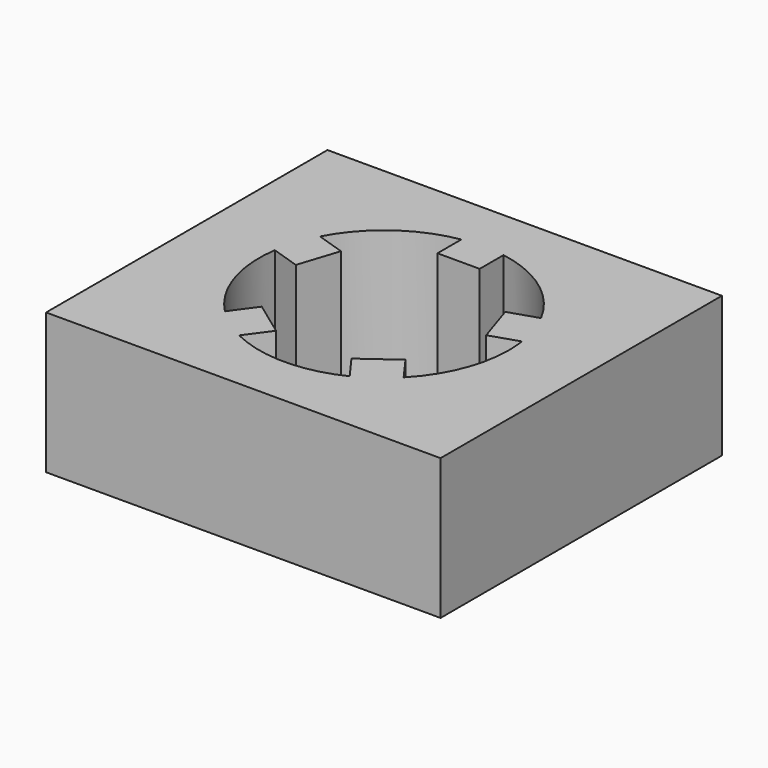
from build123d import *

# Parameters (mm, degrees)
F1_W     = 11.2149509114
F1_H     = 10
F2_DEPTH = 4
F4_DEPTH = 4


with BuildPart() as f2:
    # F1 (on Top) → F2 (new body)
    with BuildSketch(Plane.XY):
        Rectangle(F1_W, F1_H)
    extrude(amount=-F2_DEPTH)

    # F3 (on Top) → F4 (cut)
    with BuildSketch(Plane.XY):
        with BuildLine():
            ThreePointArc((2.5420287133, -2.4780213923), (3.2883660025, -1.3375907572), (3.55, 0))
            ThreePointArc((3.55, 0), (3.5407601901, 0.2559634273), (3.5130888585, 0.5105944302))
            Line((3.5130888585, 0.5105944302), (2.7057099648, 0.2482611253))
            Line((2.7057099648, 0.2482611253), (2.3348895716, 1.3895289449))
            Line((2.3348895716, 1.3895289449), (3.1422684653, 1.6518622498))
            ThreePointArc((3.1422684653, 1.6518622498), (2.0866376456, 2.87201033), (0.6, 3.4989284074))
            Line((0.6, 3.4989284074), (0.6, 2.65))
            Line((0.6, 2.65), (-0.6, 2.65))
            Line((-0.6, 2.65), (-0.6, 3.4989284074))
            ThreePointArc((-0.6, 3.4989284074), (-2.0866376456, 2.87201033), (-3.1422684653, 1.6518622498))
            Line((-3.1422684653, 1.6518622498), (-2.3348895716, 1.3895289449))
            Line((-2.3348895716, 1.3895289449), (-2.7057099648, 0.2482611253))
            Line((-2.7057099648, 0.2482611253), (-3.5130888585, 0.5105944302))
            ThreePointArc((-3.5130888585, 0.5105944302), (-3.3762506328, -1.09701033), (-2.5420287133, -2.4780213923))
            Line((-2.5420287133, -2.4780213923), (-2.0430411152, -1.7912238837))
            Line((-2.0430411152, -1.7912238837), (-1.072220722, -2.4965661865))
            Line((-1.072220722, -2.4965661865), (-1.5712083201, -3.1833636951))
            ThreePointArc((-1.5712083201, -3.1833636951), (0, -3.55), (1.5712083201, -3.1833636951))
            Line((1.5712083201, -3.1833636951), (1.072220722, -2.4965661865))
            Line((1.072220722, -2.4965661865), (2.0430411152, -1.7912238837))
            Line((2.0430411152, -1.7912238837), (2.5420287133, -2.4780213923))
        make_face()
    extrude(amount=-F4_DEPTH, mode=Mode.SUBTRACT)


solid = f2.part
